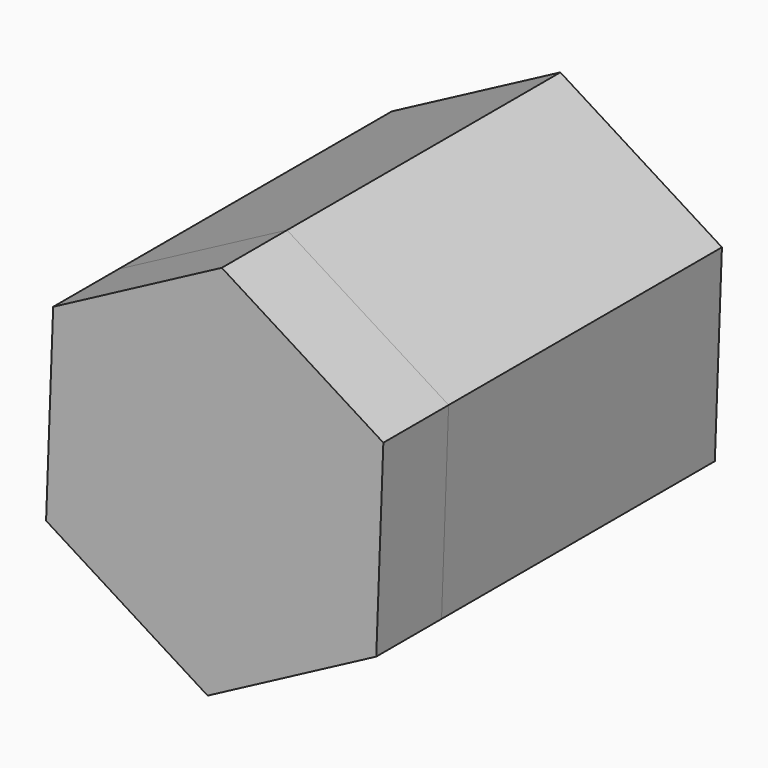
from build123d import *

# Parameters (mm, degrees)
F1_DEPTH = 106.350519
F2_DEPTH = 25.4


with BuildPart() as f1:
    # F0 (on Front) → F1 (new body)
    with BuildSketch(Plane.XZ):
        Polygon((1.314354, -45.060584), (53.809687, -17.299548), (56.015592, 42.043263), (5.726162, 73.625037), (-46.769172, 45.864001), (-48.975076, -13.47881), align=None)
    extrude(amount=F1_DEPTH)

    # F1_face (on face) → F2 (join)
    with BuildSketch(Plane(origin=(3.520258, -106.350519, 14.282227), x_dir=(1, 0, 0), z_dir=(0, -1, 0))):
        Polygon((-52.495334, -27.761037), (-2.205904, -59.342811), (50.28943, -31.581774), (52.495334, 27.761037), (2.205904, 59.342811), (-50.28943, 31.581774), align=None)
    extrude(amount=F2_DEPTH)


solid = f1.part
